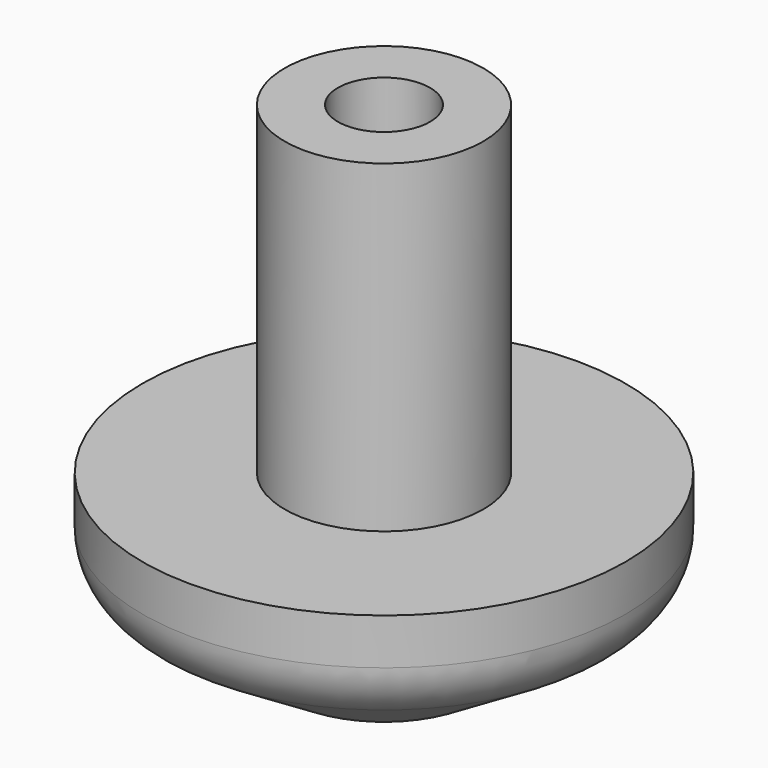
from build123d import *

# Parameters (mm, degrees)
F2_R     = 4.7625
F3_DEPTH = 9.525


with BuildPart() as f1:
    # F0 (on Front) → F1 (revolve)
    with BuildSketch(Plane.XZ):
        with BuildLine():
            Line((0, 50.8), (0, 0))
            Line((0, 0), (10.261248, 0))
            Line((10.261248, 0), (21.929258, 7.154912))
            ThreePointArc((21.929258, 7.154912), (24.1506, 9.46627), (24.959791, 12.568196))
            Line((24.959791, 12.568196), (24.959791, 17.333189))
            Line((24.959791, 17.333189), (10.261248, 17.333189))
            Line((10.261248, 17.333189), (10.261248, 50.8))
            Line((10.261248, 50.8), (0, 50.8))
        make_face()
    revolve(axis=Axis((0, 0, 25.4), (0, 0, 1)))

    # F2 (on face) → F3 (cut)
    with BuildSketch(Plane.XY.offset(50.8)):
        Circle(F2_R)
    extrude(amount=-F3_DEPTH, mode=Mode.SUBTRACT)


solid = f1.part
